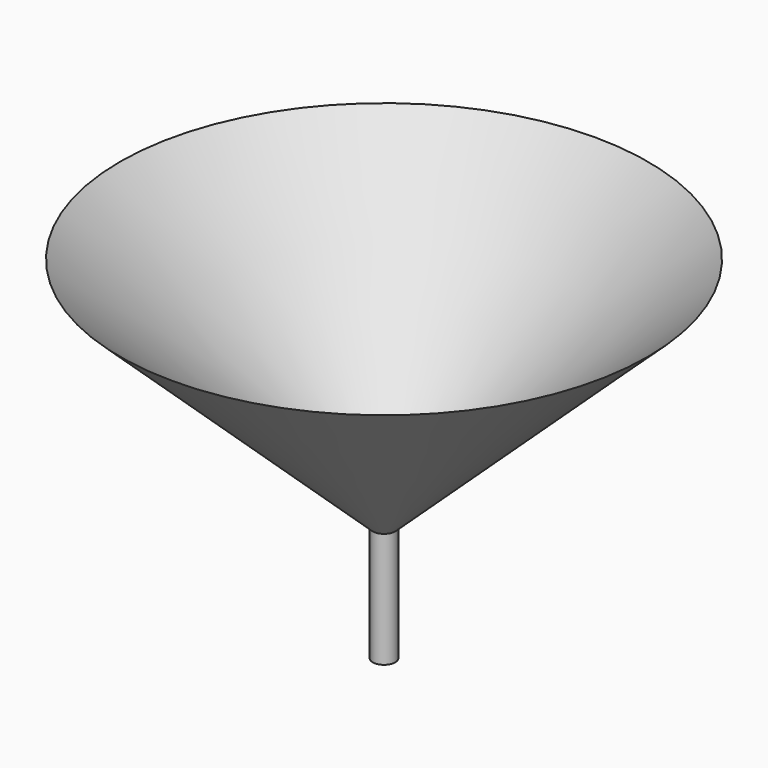
from build123d import *

# Parameters (mm, degrees)
F2_R     = 1.961276
F3_DEPTH = 25.4


with BuildPart() as f1:
    # F0 (on Front) → F1 (revolve)
    with BuildSketch(Plane.XZ):
        Polygon((3.150751, -11.167818), (3.150751, -36.567818), (5.633163, -36.567818), (5.633163, -11.167818), (61.325197, 40.840232), align=None)
    revolve(axis=Axis((3.150751, 0, -23.867818), (0, 0, -1)))

    # F2 (on Top) → F3 (cut)
    with BuildSketch(Plane.XY):
        with Locations((3.081067, 0)):
            Circle(F2_R)
    extrude(amount=-F3_DEPTH, mode=Mode.SUBTRACT)


solid = f1.part
